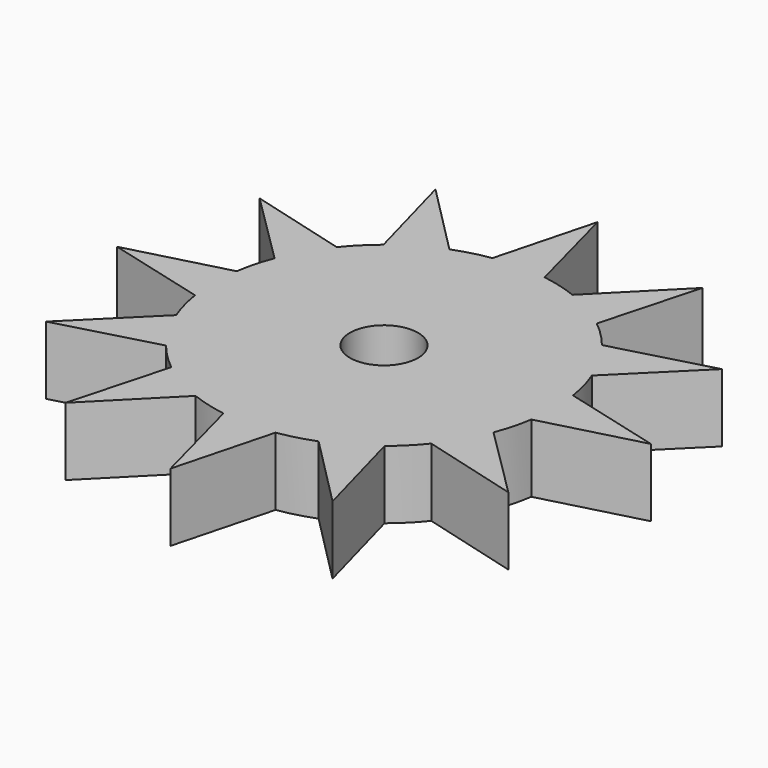
from build123d import *

# Parameters (mm, degrees)
F1_DEPTH = 2
F2_R     = 1
F3_DEPTH = 25


with BuildPart() as f1:
    # F0 (on Top) → F1 (new body)
    with BuildSketch(Plane.XY):
        with BuildLine():
            ThreePointArc((4.941112, -0.76512), (4.985256, -0.383692), (5, 0))
            ThreePointArc((5, 0), (4.985256, 0.383692), (4.941112, 0.76512))
            ThreePointArc((4.941112, 0.76512), (4.829629, 1.294095), (4.661689, 1.807943))
            ThreePointArc((4.661689, 1.807943), (4.330127, 2.5), (3.896569, 3.13317))
            ThreePointArc((3.896569, 3.13317), (3.535534, 3.535534), (3.13317, 3.896569))
            ThreePointArc((3.13317, 3.896569), (2.5, 4.330127), (1.807943, 4.661689))
            ThreePointArc((1.807943, 4.661689), (1.294095, 4.829629), (0.76512, 4.941112))
            ThreePointArc((0.76512, 4.941112), (0, 5), (-0.76512, 4.941112))
            ThreePointArc((-0.76512, 4.941112), (-1.294095, 4.829629), (-1.807943, 4.661689))
            ThreePointArc((-1.807943, 4.661689), (-2.5, 4.330127), (-3.13317, 3.896569))
            ThreePointArc((-3.13317, 3.896569), (-3.535534, 3.535534), (-3.896569, 3.13317))
            ThreePointArc((-3.896569, 3.13317), (-4.330127, 2.5), (-4.661689, 1.807943))
            ThreePointArc((-4.661689, 1.807943), (-4.829629, 1.294095), (-4.941112, 0.76512))
            ThreePointArc((-4.941112, 0.76512), (-5, 0), (-4.941112, -0.76512))
            ThreePointArc((-4.941112, -0.76512), (-4.829629, -1.294095), (-4.661689, -1.807943))
            ThreePointArc((-4.661689, -1.807943), (-4.330127, -2.5), (-3.896569, -3.13317))
            ThreePointArc((-3.896569, -3.13317), (-3.535534, -3.535534), (-3.13317, -3.896569))
            ThreePointArc((-3.13317, -3.896569), (-2.5, -4.330127), (-1.807943, -4.661689))
            ThreePointArc((-1.807943, -4.661689), (-1.294095, -4.829629), (-0.76512, -4.941112))
            ThreePointArc((-0.76512, -4.941112), (0, -5), (0.76512, -4.941112))
            ThreePointArc((0.76512, -4.941112), (1.294095, -4.829629), (1.807943, -4.661689))
            ThreePointArc((1.807943, -4.661689), (2.5, -4.330127), (3.13317, -3.896569))
            ThreePointArc((3.13317, -3.896569), (3.535534, -3.535534), (3.896569, -3.13317))
            ThreePointArc((3.896569, -3.13317), (4.330127, -2.5), (4.661689, -1.807943))
            ThreePointArc((4.661689, -1.807943), (4.829629, -1.294095), (4.941112, -0.76512))
        make_face()
        with BuildLine():
            ThreePointArc((4.941112, 0.76512), (4.985256, 0.383692), (5, 0))
            ThreePointArc((5, 0), (4.985256, -0.383692), (4.941112, -0.76512))
            Line((4.941112, -0.76512), (7.841904, 0))
            Line((7.841904, 0), (4.941112, 0.76512))
        make_face()
        with BuildLine():
            ThreePointArc((3.896569, 3.13317), (4.330127, 2.5), (4.661689, 1.807943))
            Line((4.661689, 1.807943), (6.791288, 3.920952))
            Line((6.791288, 3.920952), (3.896569, 3.13317))
        make_face()
        with BuildLine():
            Line((6.791288, -3.920952), (4.661689, -1.807943))
            ThreePointArc((4.661689, -1.807943), (4.330127, -2.5), (3.896569, -3.13317))
            Line((3.896569, -3.13317), (6.791288, -3.920952))
        make_face()
        with BuildLine():
            ThreePointArc((1.807943, 4.661689), (2.5, 4.330127), (3.13317, 3.896569))
            Line((3.13317, 3.896569), (3.920952, 6.791288))
            Line((3.920952, 6.791288), (1.807943, 4.661689))
        make_face()
        with BuildLine():
            Line((3.920952, -6.791288), (3.13317, -3.896569))
            ThreePointArc((3.13317, -3.896569), (2.5, -4.330127), (1.807943, -4.661689))
            Line((1.807943, -4.661689), (3.920952, -6.791288))
        make_face()
        with BuildLine():
            ThreePointArc((-0.76512, 4.941112), (0, 5), (0.76512, 4.941112))
            Line((0.76512, 4.941112), (0, 7.841904))
            Line((0, 7.841904), (-0.76512, 4.941112))
        make_face()
        with BuildLine():
            Line((0, -7.841904), (0.76512, -4.941112))
            ThreePointArc((0.76512, -4.941112), (0, -5), (-0.76512, -4.941112))
            Line((-0.76512, -4.941112), (0, -7.841904))
        make_face()
        with BuildLine():
            ThreePointArc((-3.13317, 3.896569), (-2.5, 4.330127), (-1.807943, 4.661689))
            Line((-1.807943, 4.661689), (-3.920952, 6.791288))
            Line((-3.920952, 6.791288), (-3.13317, 3.896569))
        make_face()
        with BuildLine():
            Line((-3.920952, -6.791288), (-1.807943, -4.661689))
            ThreePointArc((-1.807943, -4.661689), (-2.5, -4.330127), (-3.13317, -3.896569))
            Line((-3.13317, -3.896569), (-3.920952, -6.791288))
        make_face()
        with BuildLine():
            ThreePointArc((-4.661689, 1.807943), (-4.330127, 2.5), (-3.896569, 3.13317))
            Line((-3.896569, 3.13317), (-6.791288, 3.920952))
            Line((-6.791288, 3.920952), (-4.661689, 1.807943))
        make_face()
        with BuildLine():
            Line((-6.791288, -3.920952), (-3.896569, -3.13317))
            ThreePointArc((-3.896569, -3.13317), (-4.330127, -2.5), (-4.661689, -1.807943))
            Line((-4.661689, -1.807943), (-6.791288, -3.920952))
        make_face()
        with BuildLine():
            ThreePointArc((-4.941112, -0.76512), (-5, 0), (-4.941112, 0.76512))
            Line((-4.941112, 0.76512), (-7.841904, 0))
            Line((-7.841904, 0), (-4.941112, -0.76512))
        make_face()
    extrude(amount=F1_DEPTH)

    # F2 (on face) → F3 (cut)
    with BuildSketch(Plane.XY.offset(2)):
        Circle(F2_R)
    extrude(amount=-F3_DEPTH, mode=Mode.SUBTRACT)


solid = f1.part
